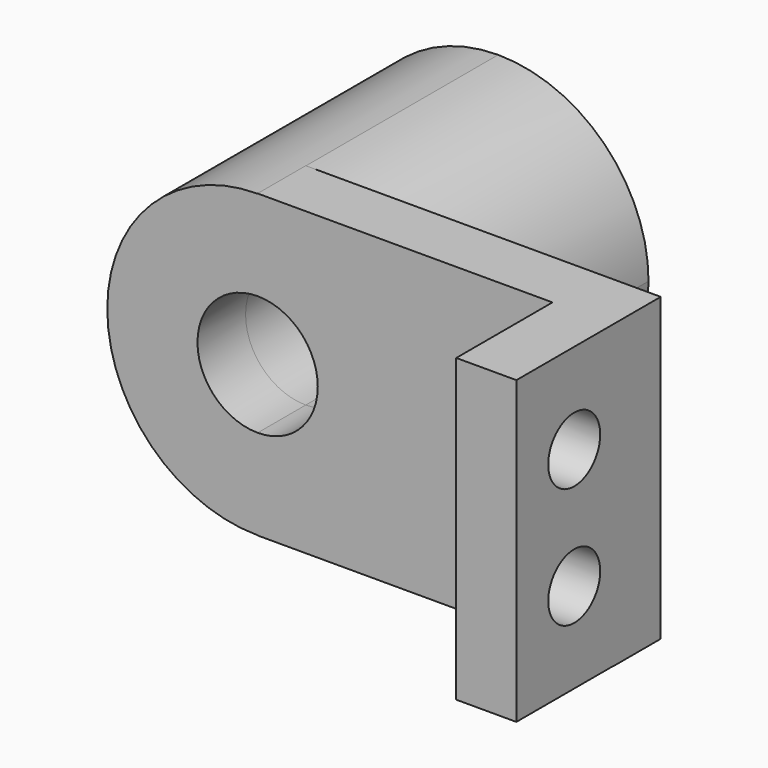
from build123d import *

# Parameters (mm, degrees)
F1_DEPTH = 12.7
F2_DEPTH = 50.8
F3_W     = 25.4
F3_H     = 63.538220574
F3_R     = 6.858
F4_DEPTH = 12.7


with BuildPart() as f1:
    # F0 (on Front) → F1 (new body)
    with BuildSketch(Plane.XZ):
        with BuildLine():
            ThreePointArc((-37.4815943599, 31.75), (-69.2315943599, 0), (-37.4815943599, -31.75))
            Line((-37.4815943599, -31.75), (-37.4815943599, -12.7))
            ThreePointArc((-37.4815943599, -12.7), (-50.1815943599, 0), (-37.4815943599, 12.7))
            Line((-37.4815943599, 12.7), (-37.4815943599, 31.75))
        make_face()
        with BuildLine():
            Line((-37.4815943599, -12.7), (-37.4815943599, -31.75))
            ThreePointArc((-37.4815943599, -31.75), (-15.0309540572, -22.4506403027), (-5.7315943599, 0))
            ThreePointArc((-5.7315943599, 0), (-15.0309540572, 22.4506403027), (-37.4815943599, 31.75))
            Line((-37.4815943599, 31.75), (-37.4815943599, 12.7))
            ThreePointArc((-37.4815943599, 12.7), (-28.5013382388, 8.9802561211), (-24.7815943599, 0))
            ThreePointArc((-24.7815943599, 0), (-28.5013382388, -8.9802561211), (-37.4815943599, -12.7))
        make_face()
        with BuildLine():
            Line((-37.4815943599, -31.75), (-37.4815943599, -31.7906037465))
            Line((-37.4815943599, -31.7906037465), (37.4815943599, -31.7906037465))
            Line((37.4815943599, -31.7906037465), (37.4815943599, 31.7906037465))
            Line((37.4815943599, 31.7906037465), (-37.4815943599, 31.7906037465))
            Line((-37.4815943599, 31.7906037465), (-37.4815943599, 31.75))
            ThreePointArc((-37.4815943599, 31.75), (-15.0309540572, 22.4506403027), (-5.7315943599, 0))
            ThreePointArc((-5.7315943599, 0), (-15.0309540572, -22.4506403027), (-37.4815943599, -31.75))
        make_face()
    extrude(amount=F1_DEPTH)

    # F0 (on Front) → F2 (join)
    with BuildSketch(Plane.XZ):
        with BuildLine():
            Line((-37.4815943599, -12.7), (-37.4815943599, -31.75))
            ThreePointArc((-37.4815943599, -31.75), (-15.0309540572, -22.4506403027), (-5.7315943599, 0))
            ThreePointArc((-5.7315943599, 0), (-15.0309540572, 22.4506403027), (-37.4815943599, 31.75))
            Line((-37.4815943599, 31.75), (-37.4815943599, 12.7))
            ThreePointArc((-37.4815943599, 12.7), (-28.5013382388, 8.9802561211), (-24.7815943599, 0))
            ThreePointArc((-24.7815943599, 0), (-28.5013382388, -8.9802561211), (-37.4815943599, -12.7))
        make_face()
        with BuildLine():
            ThreePointArc((-37.4815943599, 31.75), (-69.2315943599, 0), (-37.4815943599, -31.75))
            Line((-37.4815943599, -31.75), (-37.4815943599, -12.7))
            ThreePointArc((-37.4815943599, -12.7), (-50.1815943599, 0), (-37.4815943599, 12.7))
            Line((-37.4815943599, 12.7), (-37.4815943599, 31.75))
        make_face()
    extrude(amount=-F2_DEPTH)

    # F3 (on face) → F4 (join)
    with BuildSketch(Plane.YZ.offset(37.4815943599)):
        with Locations((-25.4, 0.0214934595)):
            Rectangle(F3_W, F3_H)
        with Locations((-22.8328048199, -12.7)):
            Circle(F3_R, mode=Mode.SUBTRACT)
        with Locations((-22.8328048199, 12.7)):
            Circle(F3_R, mode=Mode.SUBTRACT)
    extrude(amount=-F4_DEPTH)


solid = f1.part
